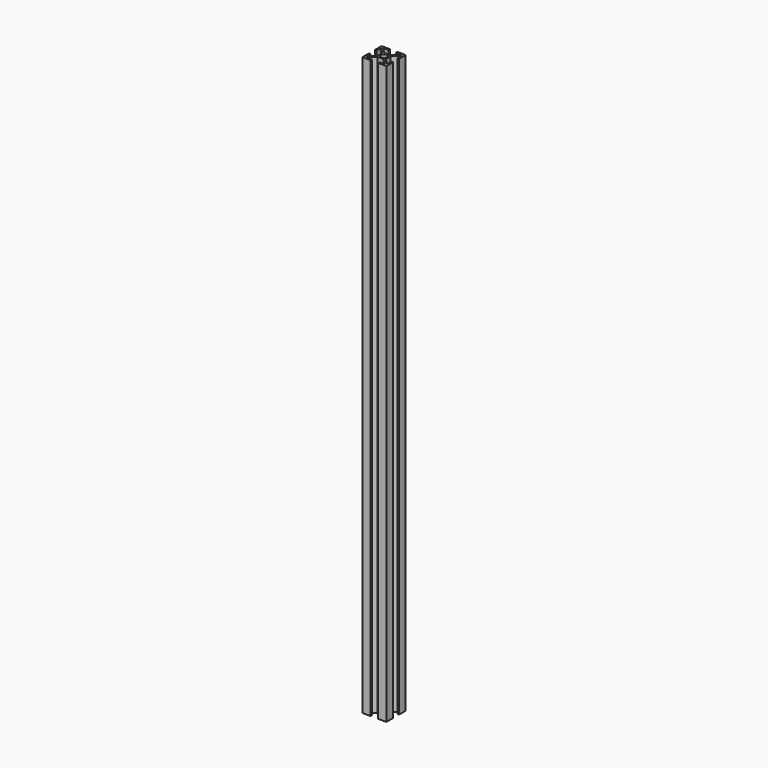
from build123d import *

# Parameters (mm, degrees)
F0_R     = 2.5
F1_DEPTH = 480


with BuildPart() as f1:
    # F0 (on Top) → F1 (new body)
    with BuildSketch(Plane.XY):
        Polygon((6.5, 7.616114), (1.4, 2.389949), (1.4, 6.8), (0, 6.8), (0, 0), (6.8, 0), (6.8, 1.4), (2.389949, 1.4), (7.489949, 6.5), (12.510051, 6.5), (17.610051, 1.4), (13.2, 1.4), (13.2, 0), (20, 0), (20, 6.8), (18.6, 6.8), (18.6, 2.389949), (13.5, 7.489949), (13.5, 12.510051), (18.6, 17.610051), (18.6, 13.2), (20, 13.2), (20, 20), (13.2, 20), (13.2, 18.6), (17.610051, 18.6), (12.510051, 13.5), (7.489949, 13.5), (2.389949, 18.6), (6.8, 18.6), (6.8, 20), (0, 20), (0, 13.2), (1.4, 13.2), (1.4, 17.610051), (6.5, 12.510051), align=None)
        with Locations((10, 10)):
            Circle(F0_R, mode=Mode.SUBTRACT)
    extrude(amount=F1_DEPTH)


solid = f1.part
